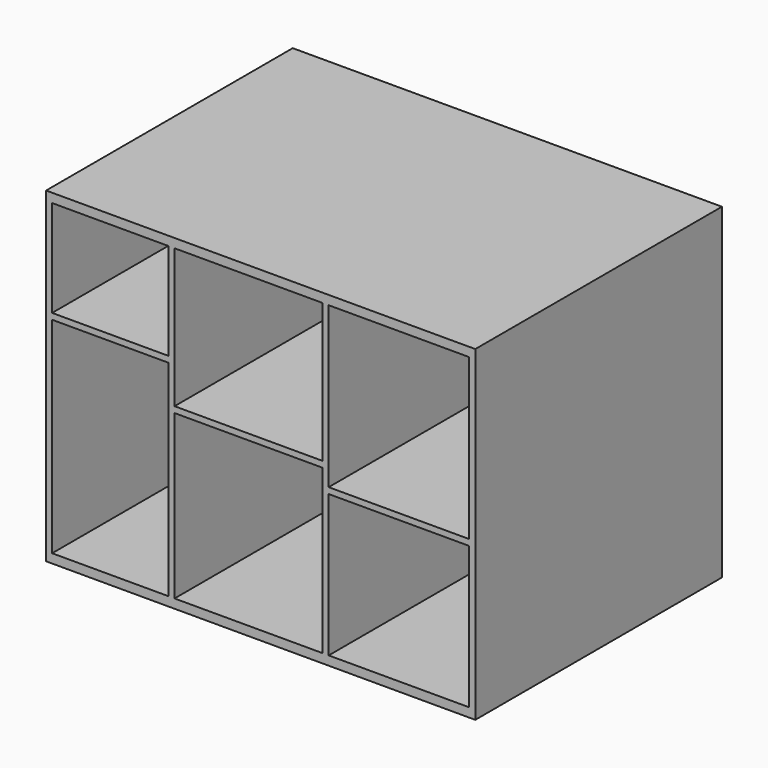
from build123d import *

# Parameters (mm, degrees)
F0_W     = 244.475
F0_H     = 12.7
F0_W_2   = 311.15
F0_W_3   = 295.275
F1_DEPTH = 635
F2_W     = 901.7
F2_H     = 685.8
F3_DEPTH = 12.7


with BuildPart() as f1:
    # F0 (on Front) → F1 (new body)
    with BuildSketch(Plane.XZ):
        Polygon((-450.85, 657.225), (-450.85, 9.525), (-438.15, 9.525), (-438.15, 441.325), (-438.15, 454.025), (-438.15, 657.225), align=None)
        Polygon((438.15, 657.225), (450.85, 657.225), (450.85, 676.275), (-450.85, 676.275), (-450.85, 657.225), (-438.15, 657.225), (-193.675, 657.225), (-180.975, 657.225), (130.175, 657.225), (142.875, 657.225), align=None)
        Polygon((-193.675, 9.525), (-180.975, 9.525), (-180.975, 352.425), (-180.975, 365.125), (-180.975, 657.225), (-193.675, 657.225), (-193.675, 454.025), (-193.675, 441.325), align=None)
        with Locations((-315.9125, 447.675)):
            Rectangle(F0_W, F0_H)
        with Locations((-25.4, 358.775)):
            Rectangle(F0_W_2, F0_H)
        Polygon((130.175, 9.525), (142.875, 9.525), (142.875, 307.975), (142.875, 320.675), (142.875, 657.225), (130.175, 657.225), (130.175, 365.125), (130.175, 352.425), align=None)
        with Locations((290.5125, 314.325)):
            Rectangle(F0_W_3, F0_H)
        Polygon((438.15, 9.525), (450.85, 9.525), (450.85, 657.225), (438.15, 657.225), (438.15, 320.675), (438.15, 307.975), align=None)
        Polygon((450.85, -9.525), (450.85, 9.525), (438.15, 9.525), (142.875, 9.525), (130.175, 9.525), (-180.975, 9.525), (-193.675, 9.525), (-438.15, 9.525), (-450.85, 9.525), (-450.85, -9.525), align=None)
    extrude(amount=F1_DEPTH)

    # F2 (on face) → F3 (join)
    with BuildSketch(Plane(origin=(0, 0, 0), x_dir=(-1, 0, 0), z_dir=(0, 1, 0))):
        with Locations((0, 333.375)):
            Rectangle(F2_W, F2_H)
    extrude(amount=F3_DEPTH)


solid = f1.part
